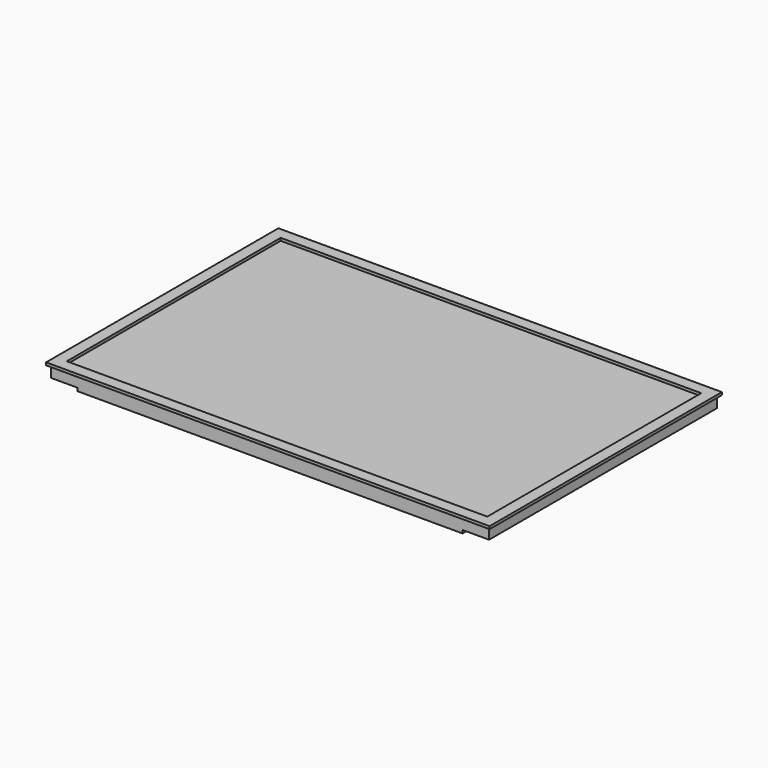
from build123d import *

# Parameters (mm, degrees)
F0_W     = 495
F0_H     = 322
F1_DEPTH = 12.7
F2_W     = 435
F2_H     = 55
F3_DEPTH = 3.5
F4_W     = 501
F4_H     = 328
F4_W_2   = 475
F4_H_2   = 302
F5_DEPTH = 3


with BuildPart() as f1:
    # F0 (on Top) → F1 (new body)
    with BuildSketch(Plane.XY):
        Rectangle(F0_W, F0_H)
    extrude(amount=F1_DEPTH)

    # F2 (on face) → F3 (join)
    with BuildSketch(Plane(origin=(0, 0, 0), x_dir=(1, 0, 0), z_dir=(0, 0, -1))):
        with Locations((0, 133.5)):
            Rectangle(F2_W, F2_H)
    extrude(amount=F3_DEPTH)


with BuildPart() as f5:
    # F4 (on face) → F5 (new body)
    with BuildSketch(Plane.XY.offset(12.7)):
        Rectangle(F4_W, F4_H)
        Rectangle(F4_W_2, F4_H_2, mode=Mode.SUBTRACT)
    extrude(amount=F5_DEPTH)


solid = Compound([f1.part, f5.part])
